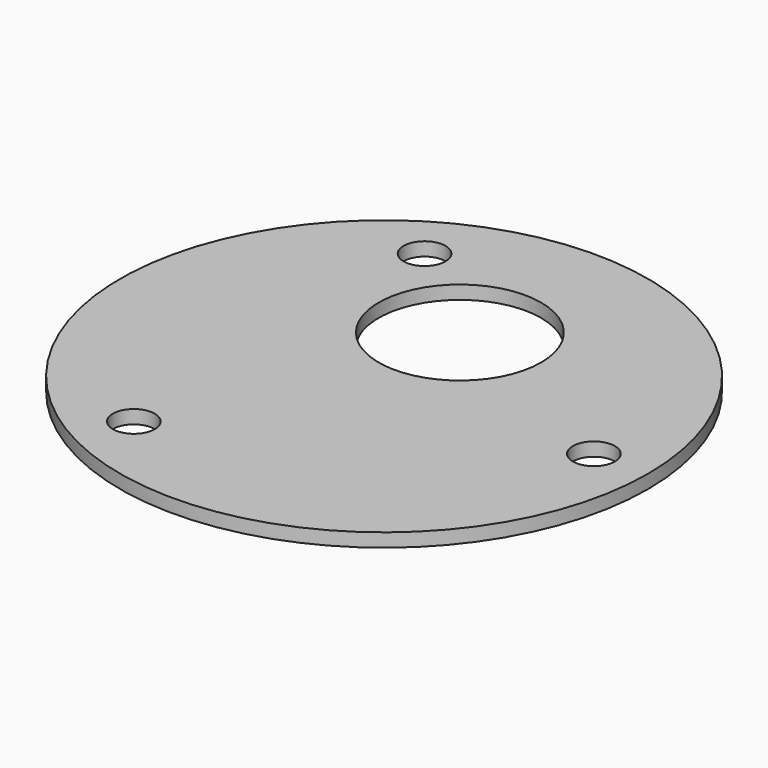
from build123d import *

# Parameters (mm, degrees)
F0_R     = 19.5
F0_R_2   = 1.55
F0_R_3   = 6
F1_DEPTH = 1


with BuildPart() as f1:
    # F0 (on Top) → F1 (new body)
    with BuildSketch(Plane.XY):
        Circle(F0_R)
        with Locations((-7.75, -13.423394)):
            Circle(F0_R_2, mode=Mode.SUBTRACT)
        with Locations((-7.75, 13.423394)):
            Circle(F0_R_2, mode=Mode.SUBTRACT)
        with Locations((0, 7)):
            Circle(F0_R_3, mode=Mode.SUBTRACT)
        with Locations((15.5, 0)):
            Circle(F0_R_2, mode=Mode.SUBTRACT)
    extrude(amount=F1_DEPTH)


solid = f1.part
